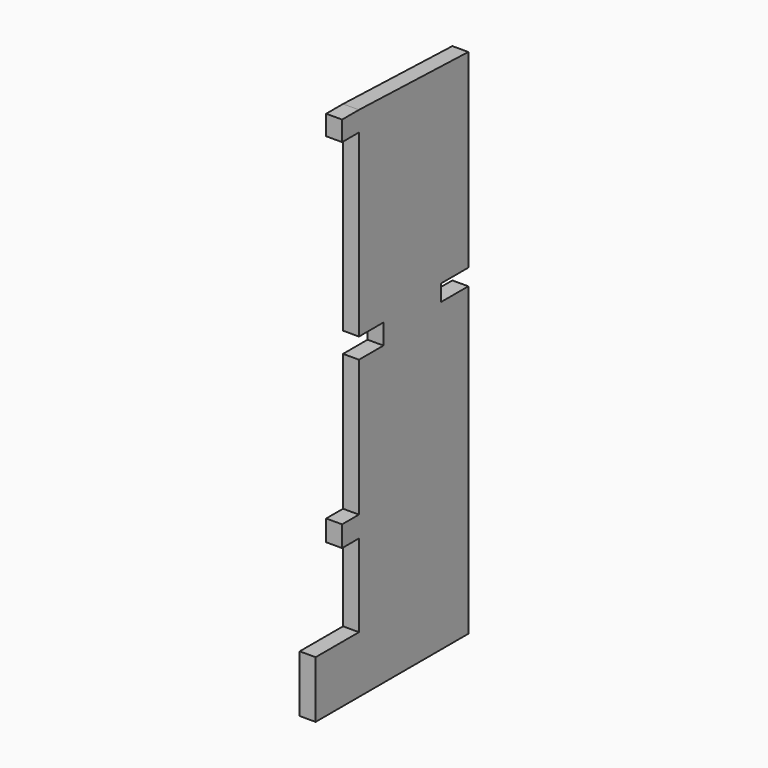
from build123d import *

# Parameters (mm, degrees)
F1_DEPTH = 3


with BuildPart() as f1:
    # F0 (on Right) → F1 (new body)
    with BuildSketch(Plane.YZ):
        Polygon((2.348037, -19.030461), (38.296036, -19.030461), (38.296036, 38.589772), (31.85669, 38.589772), (31.85669, 41.678246), (38.296036, 41.678246), (38.296036, 77.442527), (12.553034, 78.310817), (8.580892, 78.310817), (8.580892, 74.567556), (12.553034, 74.567556), (12.553034, 40.715896), (18.325886, 40.715896), (18.325886, 36.877446), (12.553034, 36.877446), (12.553034, 11.196254), (8.580892, 11.196254), (8.580892, 7.252157), (12.553034, 7.252157), (12.553034, -8.299731), (2.348037, -8.299731), align=None)
    extrude(amount=F1_DEPTH)


solid = f1.part
